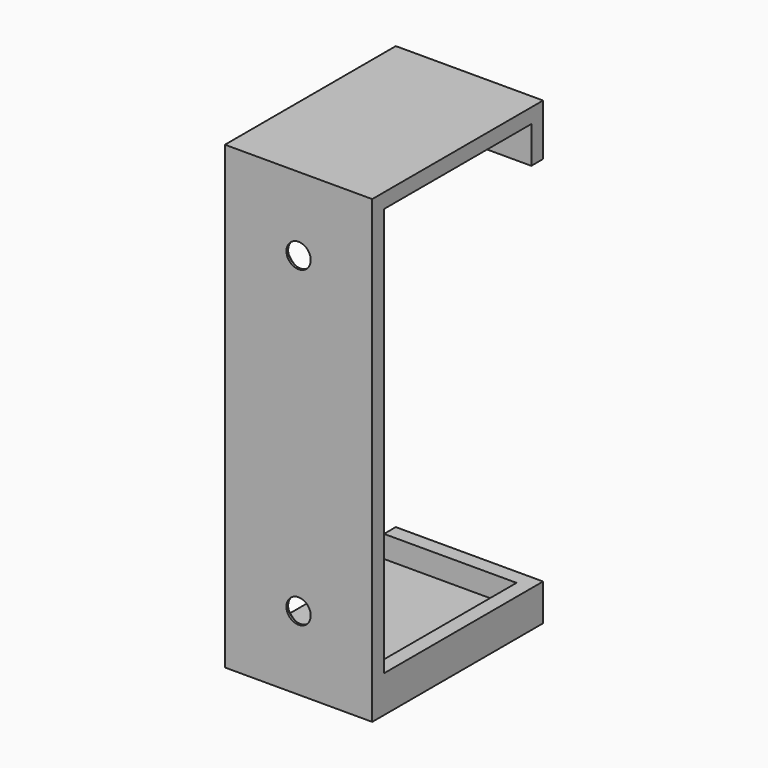
from build123d import *

# Parameters (mm, degrees)
F0_W           = 29
F0_H           = 62.5
F0_W_2         = 25
F0_H_2         = 58.5
F1_DEPTH       = 20
F2_W           = 20
F2_H           = 52.5
F3_DEPTH       = 2
F5_D           = 3.3
F5_CSINK_D     = 6.72
F5_CSINK_ANGLE = 90
F6_W           = 2
F6_H           = 25
F7_DEPTH       = 3
F8_DEPTH       = 2


with BuildPart() as f1:
    # F0 (on Right) → F1 (new body)
    with BuildSketch(Plane.YZ):
        Rectangle(F0_W, F0_H)
        Rectangle(F0_W_2, F0_H_2, mode=Mode.SUBTRACT)
    extrude(amount=F1_DEPTH)

    # F2 (on face) → F3 (cut)
    with BuildSketch(Plane(origin=(0, 14.5, 0), x_dir=(-1, 0, 0), z_dir=(0, 1, 0))):
        with Locations((-10, 0)):
            Rectangle(F2_W, F2_H)
    extrude(amount=-F3_DEPTH, mode=Mode.SUBTRACT)

    # F5 (through all)
    with Locations(Plane(origin=(0, -12.5, 0), x_dir=(-1, 0, 0), z_dir=(0, 1, 0))):
        with Locations((-10, 21.25), (-10, -21.25)):
            CounterSinkHole(F5_D / 2, F5_CSINK_D / 2, counter_sink_angle=F5_CSINK_ANGLE)

    # F6 (on face) → F7 (join, through all)
    with BuildSketch(Plane.XY.offset(-29.25)):
        with Locations((19, 0)):
            Rectangle(F6_W, F6_H)
    extrude(amount=F7_DEPTH)

    # F8 (add): a face of the model
    f8_faces = [f1.faces().sort_by_distance(p)[0] for p in [
        (10, 13.5, 26.25),
    ]]
    extrude(f8_faces, amount=F8_DEPTH)


solid = f1.part
